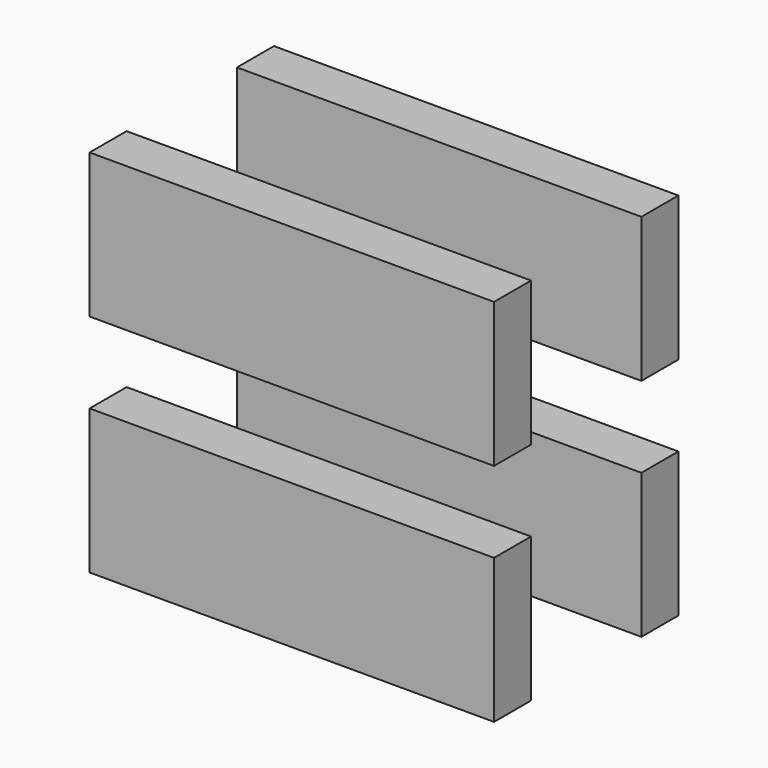
from build123d import *

# Parameters (mm, degrees)
BOX011_W               = 8
BOX011_H               = 70
BOX011_DEPTH           = 25
BOX011_PLACEMENT_ANGLE = -90
BOX010_W               = 8
BOX010_H               = 70
BOX010_DEPTH           = 25
BOX010_PLACEMENT_ANGLE = -90
BOX009_W               = 8
BOX009_H               = 70
BOX009_DEPTH           = 25
BOX009_PLACEMENT_ANGLE = -90
BOX_W                  = 8
BOX_H                  = 70
BOX_DEPTH              = 25
BOX_PLACEMENT_ANGLE    = -90


with BuildPart() as wood004:
    # Box011 → Box011 (new body)
    with BuildSketch(Plane.XY):
        with Locations((4, 35)):
            Rectangle(BOX011_W, BOX011_H)
    extrude(amount=BOX011_DEPTH)


with BuildPart() as wood004_1:
    # Box011 placement: moved
    add(wood004.part.moved(Location((-35, 19.94, -33))).rotate(Axis((-35, 19.94, -33), (0, 0, 1)), BOX011_PLACEMENT_ANGLE))


with BuildPart() as wood_down:
    # Box010 → Box010 (new body)
    with BuildSketch(Plane.XY):
        with Locations((4, 35)):
            Rectangle(BOX010_W, BOX010_H)
    extrude(amount=BOX010_DEPTH)


with BuildPart() as wood_down_1:
    # Box010 placement: moved
    add(wood_down.part.moved(Location((-35, -11.94, -33))).rotate(Axis((-35, -11.94, -33), (0, 0, 1)), BOX010_PLACEMENT_ANGLE))

    # Fusion020: union Wood004
    add(wood004_1.part)


with BuildPart() as wood002:
    # Box009 → Box009 (new body)
    with BuildSketch(Plane.XY):
        with Locations((4, 35)):
            Rectangle(BOX009_W, BOX009_H)
    extrude(amount=BOX009_DEPTH)


with BuildPart() as wood002_1:
    # Box009 placement: moved
    add(wood002.part.moved(Location((-35, 19.94, 6))).rotate(Axis((-35, 19.94, 6), (0, 0, 1)), BOX009_PLACEMENT_ANGLE))


with BuildPart() as wood:
    # Box → Box (new body)
    with BuildSketch(Plane.XY):
        with Locations((4, 35)):
            Rectangle(BOX_W, BOX_H)
    extrude(amount=BOX_DEPTH)


with BuildPart() as wood_1:
    # Box placement: moved
    add(wood.part.moved(Location((-35, -11.94, 6))).rotate(Axis((-35, -11.94, 6), (0, 0, 1)), BOX_PLACEMENT_ANGLE))

    # Fusion019: union Wood002
    add(wood002_1.part)

    # Fusion021: union Wood-Down
    add(wood_down_1.part)


solid = wood_1.part
